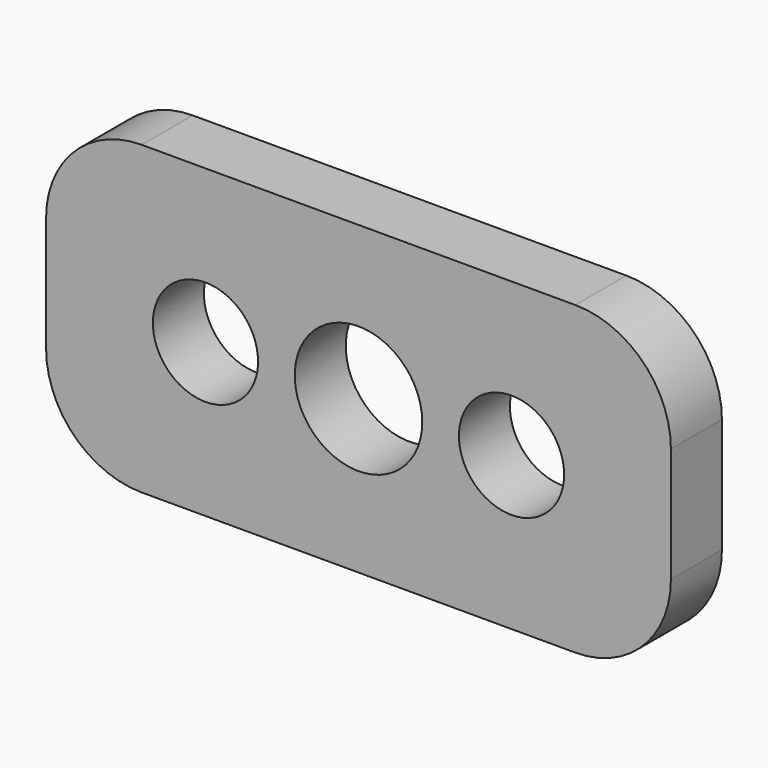
from build123d import *

# Parameters (mm, degrees)
F0_W     = 19.6
F0_H     = 9.6
F1_DEPTH = 2
F2_R     = 2
F3_DEPTH = 3
F4_R     = 1.65
F6_DEPTH = 3
F5_R     = 1.65
F7_DEPTH = 3
F8_R     = 3


with BuildPart() as f1:
    # F0 (on Front) → F1 (new body)
    with BuildSketch(Plane.XZ):
        with Locations((9.8, 4.8)):
            Rectangle(F0_W, F0_H)
    extrude(amount=F1_DEPTH)

    # F2 (on face) → F3 (cut)
    with BuildSketch(Plane.XZ.offset(2)):
        with Locations((9.8, 4.8)):
            Circle(F2_R)
    extrude(amount=-F3_DEPTH, mode=Mode.SUBTRACT)

    # F4 (on face) → F6 (cut)
    with BuildSketch(Plane.XZ.offset(2)):
        with Locations((5, 4.8)):
            Circle(F4_R)
    extrude(amount=-F6_DEPTH, mode=Mode.SUBTRACT)

    # F5 (on face) → F7 (cut)
    with BuildSketch(Plane.XZ.offset(2)):
        with Locations((14.6, 4.8)):
            Circle(F5_R)
    extrude(amount=-F7_DEPTH, mode=Mode.SUBTRACT)

    # F8
    f8_edges = [f1.edges().sort_by_distance(p)[0] for p in [
        (19.6, -1, 9.6),
        (0, -1, 9.6),
        (0, -1, 0),
        (19.6, -1, 0),
    ]]
    fillet(f8_edges, radius=F8_R)


solid = f1.part
